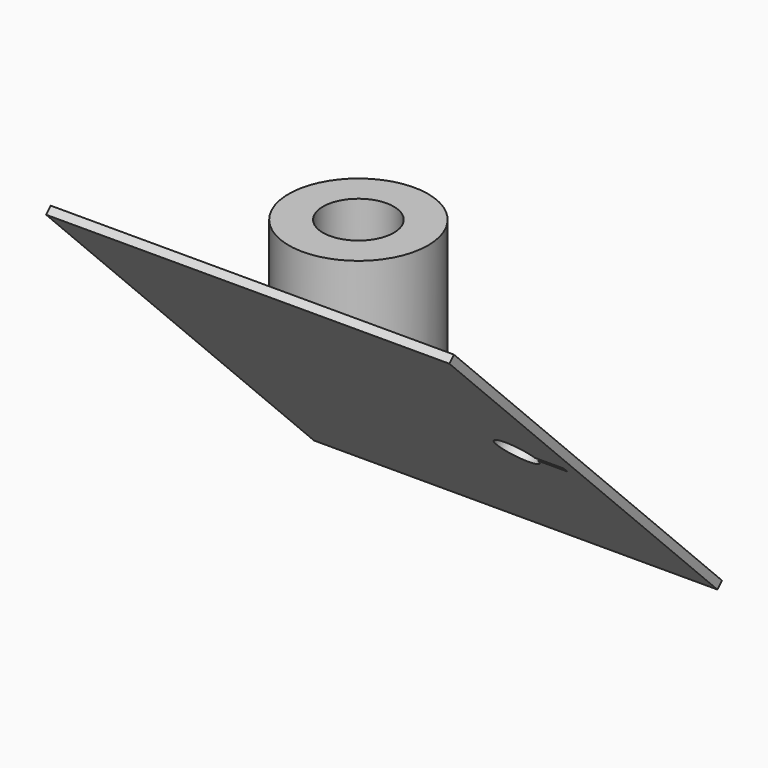
from build123d import *

# Parameters (mm, degrees)
F0_R     = 17.283022434
F1_DEPTH = 50
F2_R     = 8.7881586796
F3_DEPTH = 50
F5_DEPTH = 20
F7_W     = 100
F7_H     = 117.4868202522
F8_DEPTH = 2


with BuildPart() as f1:
    # F0 (on Top) → F1 (new body)
    with BuildSketch(Plane.XY):
        Circle(F0_R)
    extrude(amount=F1_DEPTH)

    # F2 (on face) → F3 (cut)
    with BuildSketch(Plane.XY.offset(50)):
        Circle(F2_R)
    extrude(amount=-F3_DEPTH, mode=Mode.SUBTRACT)

    # F4 (on Right) → F5 (cut, symmetric)
    with BuildSketch(Plane.YZ):
        Polygon((-17.283022434, 34.5660448679), (-17.283022434, 0), (17.283022434, 0), align=None)
    extrude(amount=F5_DEPTH, both=True, mode=Mode.SUBTRACT)

    # F7 (on offset) → F8 (join)
    with BuildSketch(Plane(origin=(0, 8.641511217, 8.641511217), x_dir=(1, 0, 0), z_dir=(0, -0.7071067812, -0.7071067812))):
        Rectangle(F7_W, F7_H)
        with BuildLine():
            ThreePointArc((38.4038900758, -0.7964591027), (28.4677323699, 0), (38.4038900758, 0.7964591027))
            Line((38.4038900758, 0.7964591027), (45.567390877, 0.7964591027))
            Line((45.567390877, 0.7964591027), (45.567390877, -0.7964591027))
            Line((45.567390877, -0.7964591027), (38.4038900758, -0.7964591027))
        make_face(mode=Mode.SUBTRACT)
    extrude(amount=F8_DEPTH)


solid = f1.part
